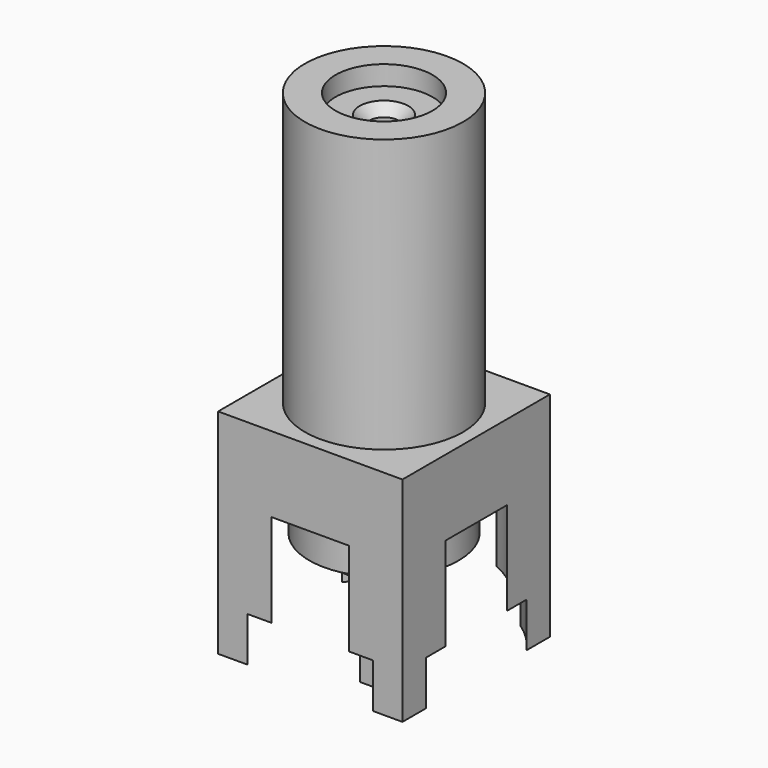
from build123d import *

# Parameters (mm, degrees)
SKETCH_W        = 9.5
SKETCH_H        = 9.5
PAD_DEPTH       = 11
SKETCH001_R     = 4.075
PAD001_DEPTH    = 14.07
SKETCH005_R     = 5.75
POCKET002_DEPTH = 2.3
SKETCH006_R     = 5.15
POCKET003_DEPTH = 4.8
SKETCH007_R     = 2.5
POCKET_DEPTH    = 1
SKETCH008_R     = 0.75
POCKET004_DEPTH = 5
CHAMFER_SIZE    = 0.5
SKETCH009_R     = 3.85
PAD002_DEPTH    = 2
SKETCH010_R     = 2.28
PAD003_DEPTH    = 1
SKETCH011_W     = 2.06
SKETCH011_H     = 0.5
PAD004_DEPTH    = 6


with BuildPart() as part:
    # Sketch → Pad (new body)
    with BuildSketch(Plane.XY):
        Rectangle(SKETCH_W, SKETCH_H)
    extrude(amount=-PAD_DEPTH)

    # Sketch001 (on Face5 of Pad) → Pad001 (join)
    with BuildSketch(Plane.XY):
        Circle(SKETCH001_R)
    extrude(amount=PAD001_DEPTH)

    # Sketch005 → Pocket002 (cut)
    with BuildSketch(Plane(origin=(0, 0, -11), x_dir=(1, 0, 0), z_dir=(0, 0, -1))):
        Circle(SKETCH005_R)
    extrude(amount=-POCKET002_DEPTH, mode=Mode.SUBTRACT)

    # Sketch006 (on Face6 of Pocket002) → Pocket003 (cut)
    with BuildSketch(Plane(origin=(0, 0, -8.7), x_dir=(1, 0, 0), z_dir=(0, 0, -1))):
        Circle(SKETCH006_R)
    extrude(amount=-POCKET003_DEPTH, mode=Mode.SUBTRACT)

    # Sketch007 (on Face24 of Pocket003) → Pocket (cut)
    with BuildSketch(Plane.XY.offset(14.07)):
        Circle(SKETCH007_R)
    extrude(amount=-POCKET_DEPTH, mode=Mode.SUBTRACT)

    # Sketch008 (on Face26 of Pocket) → Pocket004 (cut)
    with BuildSketch(Plane.XY.offset(13.07)):
        Circle(SKETCH008_R)
    extrude(amount=-POCKET004_DEPTH, mode=Mode.SUBTRACT)

    # Chamfer
    chamfer_edges = [part.edges().sort_by_distance(p)[0] for p in [
        (-0.75, 0, 13.07),
    ]]
    chamfer(chamfer_edges, length=CHAMFER_SIZE)

    # Sketch009 (on Face17 of Chamfer) → Pad002 (join)
    with BuildSketch(Plane(origin=(0, 0, -3.9), x_dir=(1, 0, 0), z_dir=(0, 0, -1))):
        Circle(SKETCH009_R)
    extrude(amount=PAD002_DEPTH)

    # Sketch010 (on Face31 of Pad002) → Pad003 (join)
    with BuildSketch(Plane(origin=(0, 0, -5.9), x_dir=(1, 0, 0), z_dir=(0, 0, -1))):
        Circle(SKETCH010_R)
    extrude(amount=PAD003_DEPTH)

    # Sketch011 (on Face33 of Pad003) → Pad004 (join)
    with BuildSketch(Plane(origin=(0, 0, -6.9), x_dir=(1, 0, 0), z_dir=(0, 0, -1))):
        Rectangle(SKETCH011_W, SKETCH011_H)
    extrude(amount=PAD004_DEPTH)


solid = part.part
